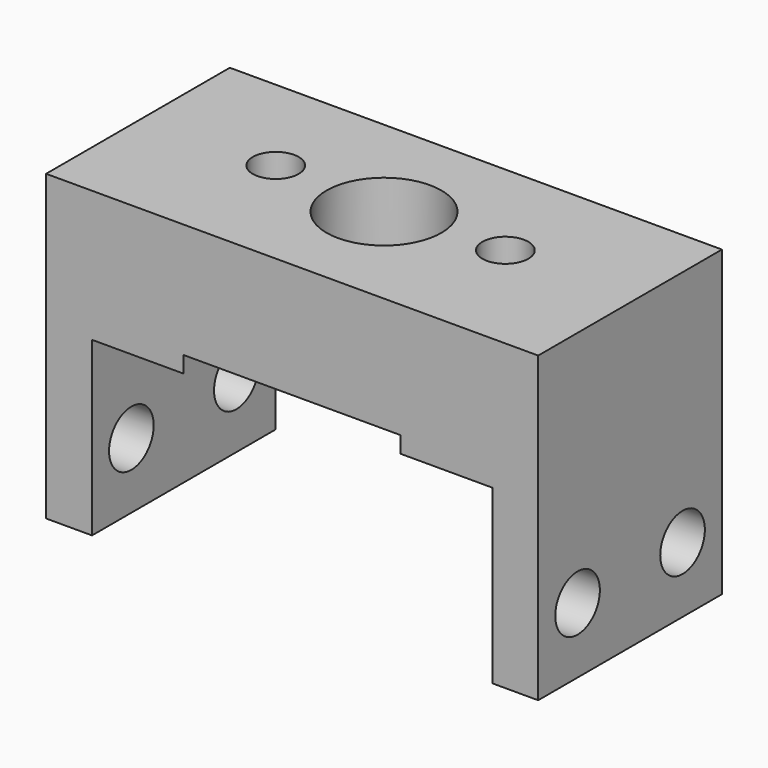
from build123d import *

# Parameters (mm, degrees)
CYLINDER276_R             = 10
CYLINDER276_DEPTH         = 30
CYLINDER110_R             = 3.5
CYLINDER110_DEPTH         = 30
CYLINDER109_R             = 4.7
CYLINDER109_DEPTH         = 30
FUSION080_ROLL_ANGLE      = 180
FUSION080_PLACEMENT_ANGLE = -90
CYLINDER269_R             = 1.4
CYLINDER269_DEPTH         = 50
CYLINDER268_R             = 1.4
CYLINDER268_DEPTH         = 50
CYLINDER030_R             = 1.7
CYLINDER030_DEPTH         = 19
CYLINDER030_ROLL_ANGLE    = 90
CYLINDER107_R             = 1.7
CYLINDER107_DEPTH         = 19
CYLINDER107_ROLL_ANGLE    = 90
CYLINDER108_R             = 1.7
CYLINDER108_DEPTH         = 19
CYLINDER108_ROLL_ANGLE    = 90
CYLINDER104_R             = 1.7
CYLINDER104_DEPTH         = 19
CYLINDER104_ROLL_ANGLE    = 90
BOX001012_W               = 14
BOX001012_H               = 2.8
BOX001012_DEPTH           = 11
BOX001011_W               = 14
BOX001011_H               = 2.8
BOX001011_DEPTH           = 11
BOX001010_W               = 14
BOX001010_H               = 30
BOX001010_DEPTH           = 8
CUT006_ROLL_ANGLE         = 180
CUT006_PLACEMENT_ANGLE    = -90


with BuildPart() as cylinder290:
    # Cylinder276 → Cylinder276 (new body)
    with BuildSketch(Plane(origin=(61.5, 15, -11), x_dir=(1, 0, 0), z_dir=(0, 0, 1))):
        Circle(CYLINDER276_R)
    extrude(amount=CYLINDER276_DEPTH)


with BuildPart() as cylinder116:
    # Cylinder110 → Cylinder110 (new body)
    with BuildSketch(Plane.XY.offset(-9)):
        Circle(CYLINDER110_R)
    extrude(amount=CYLINDER110_DEPTH)


with BuildPart() as bearing_nut:
    # Cylinder109 → Cylinder109 (new body)
    with BuildSketch(Plane.XY.offset(-4.5)):
        Circle(CYLINDER109_R)
    extrude(amount=CYLINDER109_DEPTH)

    # Fusion080: union Cylinder116
    add(cylinder116.part)


with BuildPart() as bearing_nut_1:
    # Fusion080 roll: moved
    add(bearing_nut.part.rotate(Axis((0, 0, 0), (1, 0, 0)), FUSION080_ROLL_ANGLE))


with BuildPart() as bearing_nut_2:
    # Fusion080 placement: moved
    add(bearing_nut_1.part.moved(Location((61.5, 14.5, 17.5))).rotate(Axis((61.5, 14.5, 17.5), (0, 0, 1)), FUSION080_PLACEMENT_ANGLE))


with BuildPart() as m3_studding026:
    # Cylinder269 → Cylinder269 (new body)
    with BuildSketch(Plane(origin=(68.5, 15, 2), x_dir=(1, 0, 0), z_dir=(0, 0, 1))):
        Circle(CYLINDER269_R)
    extrude(amount=CYLINDER269_DEPTH)


with BuildPart() as fusion112155:
    # Cylinder268 → Cylinder268 (new body)
    with BuildSketch(Plane(origin=(54.5, 15, 2), x_dir=(1, 0, 0), z_dir=(0, 0, 1))):
        Circle(CYLINDER268_R)
    extrude(amount=CYLINDER268_DEPTH)

    # Fusion112155: union m3-studding026
    add(m3_studding026.part)


with BuildPart() as cylinder030:
    # Cylinder030 → Cylinder030 (new body)
    with BuildSketch(Plane.XY):
        Circle(CYLINDER030_R)
    extrude(amount=CYLINDER030_DEPTH)


with BuildPart() as cylinder030_1:
    # Cylinder030 roll: moved
    add(cylinder030.part.rotate(Axis((0, 0, 0), (1, 0, 0)), CYLINDER030_ROLL_ANGLE))


with BuildPart() as cylinder030_2:
    # Cylinder030 placement: moved
    add(cylinder030_1.part.moved(Location((4, 24, 6))))


with BuildPart() as cylinder107:
    # Cylinder107 → Cylinder107 (new body)
    with BuildSketch(Plane.XY):
        Circle(CYLINDER107_R)
    extrude(amount=CYLINDER107_DEPTH)


with BuildPart() as cylinder107_1:
    # Cylinder107 roll: moved
    add(cylinder107.part.rotate(Axis((0, 0, 0), (1, 0, 0)), CYLINDER107_ROLL_ANGLE))


with BuildPart() as cylinder107_2:
    # Cylinder107 placement: moved
    add(cylinder107_1.part.moved(Location((4, 24, 6))))


with BuildPart() as part_mirroring013:
    # Part__Mirroring013: instance of Cylinder107
    add(cylinder107_2.part.mirror(Plane(origin=(0, 0, 0), x_dir=(1, 0, 0), z_dir=(0, 1, 0))))


with BuildPart() as cylinder108:
    # Cylinder108 → Cylinder108 (new body)
    with BuildSketch(Plane.XY):
        Circle(CYLINDER108_R)
    extrude(amount=CYLINDER108_DEPTH)


with BuildPart() as cylinder108_1:
    # Cylinder108 roll: moved
    add(cylinder108.part.rotate(Axis((0, 0, 0), (1, 0, 0)), CYLINDER108_ROLL_ANGLE))


with BuildPart() as cylinder108_2:
    # Cylinder108 placement: moved
    add(cylinder108_1.part.moved(Location((-4, 24, 6))))


with BuildPart() as part_mirroring014:
    # Part__Mirroring014: instance of Cylinder108
    add(cylinder108_2.part.mirror(Plane(origin=(0, 0, 0), x_dir=(1, 0, 0), z_dir=(0, 1, 0))))


with BuildPart() as m3_clear_a:
    # Cylinder104 → Cylinder104 (new body)
    with BuildSketch(Plane.XY):
        Circle(CYLINDER104_R)
    extrude(amount=CYLINDER104_DEPTH)


with BuildPart() as m3_clear_a_1:
    # Cylinder104 roll: moved
    add(m3_clear_a.part.rotate(Axis((0, 0, 0), (1, 0, 0)), CYLINDER104_ROLL_ANGLE))


with BuildPart() as m3_clear_a_2:
    # Cylinder104 placement: moved
    add(m3_clear_a_1.part.moved(Location((-4, 24, 6))))

    # Fusion063: union Cylinder030, Part__Mirroring013, Part__Mirroring014
    add(cylinder030_2.part)
    add(part_mirroring013.part)
    add(part_mirroring014.part)


with BuildPart() as cube051:
    # Box001012 → Box001012 (new body)
    with BuildSketch(Plane(origin=(-7, 12.2, -1), x_dir=(1, 0, 0), z_dir=(0, 0, 1))):
        with Locations((7, 1.4)):
            Rectangle(BOX001012_W, BOX001012_H)
    extrude(amount=BOX001012_DEPTH)


with BuildPart() as cube050:
    # Box001011 → Box001011 (new body)
    with BuildSketch(Plane(origin=(-7, -15, -1), x_dir=(1, 0, 0), z_dir=(0, 0, 1))):
        with Locations((7, 1.4)):
            Rectangle(BOX001011_W, BOX001011_H)
    extrude(amount=BOX001011_DEPTH)


with BuildPart() as bearing_clamp:
    # Box001010 → Box001010 (new body)
    with BuildSketch(Plane(origin=(-7, -15, -8.5), x_dir=(1, 0, 0), z_dir=(0, 0, 1))):
        with Locations((7, 15)):
            Rectangle(BOX001010_W, BOX001010_H)
    extrude(amount=BOX001010_DEPTH)

    # Fusion061: union Cube051, Cube050
    add(cube051.part)
    add(cube050.part)

    # Cut006: cut M3-clear-a
    add(m3_clear_a_2.part, mode=Mode.SUBTRACT)


with BuildPart() as bearing_clamp_1:
    # Cut006 roll: moved
    add(bearing_clamp.part.rotate(Axis((0, 0, 0), (1, 0, 0)), CUT006_ROLL_ANGLE))


with BuildPart() as bearing_clamp_2:
    # Cut006 placement: moved
    add(bearing_clamp_1.part.moved(Location((61.5, 14.5, 17.5))).rotate(Axis((61.5, 14.5, 17.5), (0, 0, 1)), CUT006_PLACEMENT_ANGLE))

    # Cut240: cut Fusion112155
    add(fusion112155.part, mode=Mode.SUBTRACT)

    # Cut241: cut bearing-nut
    add(bearing_nut_2.part, mode=Mode.SUBTRACT)

    # Cut252: cut Cylinder290
    add(cylinder290.part, mode=Mode.SUBTRACT)


solid = bearing_clamp_2.part
